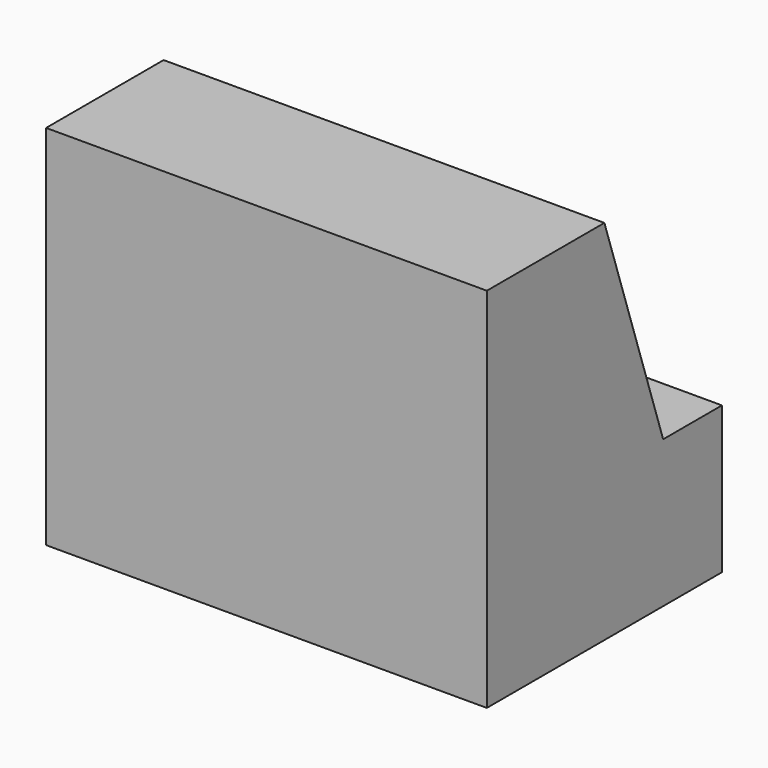
from build123d import *

# Parameters (mm, degrees)
F0_W     = 38.1
F0_H     = 31.75
F1_DEPTH = 25.4
F3_DEPTH = 50.8


with BuildPart() as f1:
    # F0 (on Front) → F1 (new body)
    with BuildSketch(Plane.XZ):
        with Locations((19.05, 15.875)):
            Rectangle(F0_W, F0_H)
    extrude(amount=F1_DEPTH)

    # F2 (on face) → F3 (cut)
    with BuildSketch(Plane.YZ.offset(38.1)):
        Polygon((0, 31.75), (-12.7, 31.75), (-6.35, 12.7), (0, 12.7), align=None)
    extrude(amount=-F3_DEPTH, mode=Mode.SUBTRACT)


solid = f1.part
